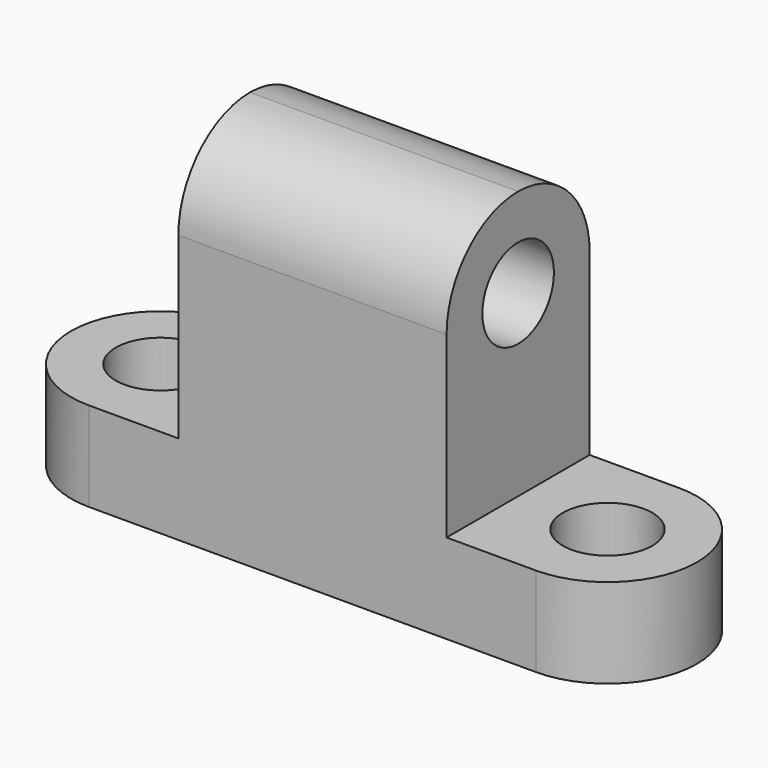
from build123d import *

# Parameters (mm, degrees)
F1_DEPTH = 25.4
F2_R     = 6.35
F3_DEPTH = 25.4
F4_R     = 6.35
F5_DEPTH = 49.276
F6_R     = 6.35
F7_DEPTH = 25.4


with BuildPart() as f1:
    # F0 (on Front) → F1 (new body)
    with BuildSketch(Plane.XZ):
        Polygon((0, 12.7), (0, 0), (101.6, 0), (101.6, 12.7), (69.85, 12.7), (69.85, 50.8), (31.75, 50.8), (31.75, 12.7), align=None)
    extrude(amount=-F1_DEPTH)

    # F2 (on face) → F3 (cut)
    with BuildSketch(Plane.XY.offset(12.7)):
        with Locations((82.55, 12.7)):
            Circle(F2_R)
        with BuildLine():
            ThreePointArc((82.55, 25.4), (95.25, 12.7), (82.55, 0))
            Line((82.55, 0), (101.6, 0))
            Line((101.6, 0), (101.6, 25.4))
            Line((101.6, 25.4), (82.55, 25.4))
        make_face()
    extrude(amount=-F3_DEPTH, mode=Mode.SUBTRACT)

    # F4 (on face) → F5 (cut)
    with BuildSketch(Plane.YZ.offset(69.85)):
        with Locations((12.7, 38.1)):
            Circle(F4_R)
        with BuildLine():
            ThreePointArc((12.7, 50.8), (21.680256, 47.080256), (25.4, 38.1))
            Line((25.4, 38.1), (25.4, 50.8))
            Line((25.4, 50.8), (12.7, 50.8))
        make_face()
        with BuildLine():
            ThreePointArc((0, 38.1), (3.719744, 47.080256), (12.7, 50.8))
            Line((12.7, 50.8), (0, 50.8))
            Line((0, 50.8), (0, 38.1))
        make_face()
    extrude(amount=-F5_DEPTH, mode=Mode.SUBTRACT)

    # F6 (on face) → F7 (cut)
    with BuildSketch(Plane.XY.offset(12.7)):
        with BuildLine():
            ThreePointArc((19.05, 0), (6.35, 12.7), (19.05, 25.4))
            Line((19.05, 25.4), (0, 25.4))
            Line((0, 25.4), (0, 0))
            Line((0, 0), (19.05, 0))
        make_face()
        with Locations((19.05, 12.7)):
            Circle(F6_R)
    extrude(amount=-F7_DEPTH, mode=Mode.SUBTRACT)


solid = f1.part
